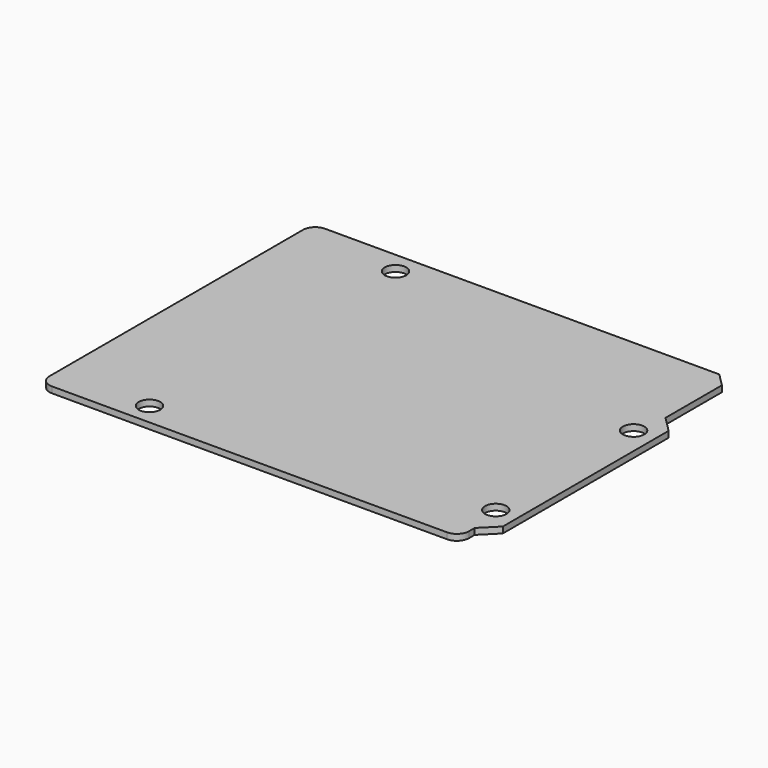
from build123d import *

# Parameters (mm, degrees)
SKETCH_R      = 1.75
EXTRUDE_DEPTH = 1


with BuildPart() as part:
    # Sketch → Extrude (new body)
    with BuildSketch(Plane.XY):
        with BuildLine():
            Line((65.264214, 54.65), (67.4, 52.514214))
            Line((67.4, 52.514214), (67.4, 41.014214))
            Line((67.4, 41.014214), (69.95, 38.464214))
            Line((69.95, 38.464214), (69.95, 4.685786))
            Line((69.95, 4.685786), (67.4, 2.135786))
            Line((67.4, 2.135786), (67.4, 1))
            ThreePointArc((65.4, -1), (66.814214, -0.414214), (67.4, 1))
            Line((65.4, -1), (1, -1))
            ThreePointArc((-1, 1), (-0.414214, -0.414214), (1, -1))
            Line((-1, 1), (-1, 52.65))
            ThreePointArc((1, 54.65), (-0.414214, 54.064214), (-1, 52.65))
            Line((1, 54.65), (65.264214, 54.65))
        make_face()
        with Locations((14.05247, 2.556984)):
            Circle(SKETCH_R, mode=Mode.SUBTRACT)
        with Locations((66.413926, 7.668398)):
            Circle(SKETCH_R, mode=Mode.SUBTRACT)
        with Locations((66.409951, 35.749834)):
            Circle(SKETCH_R, mode=Mode.SUBTRACT)
        with Locations((15.334135, 51.082933)):
            Circle(SKETCH_R, mode=Mode.SUBTRACT)
    extrude(amount=EXTRUDE_DEPTH)


solid = part.part
